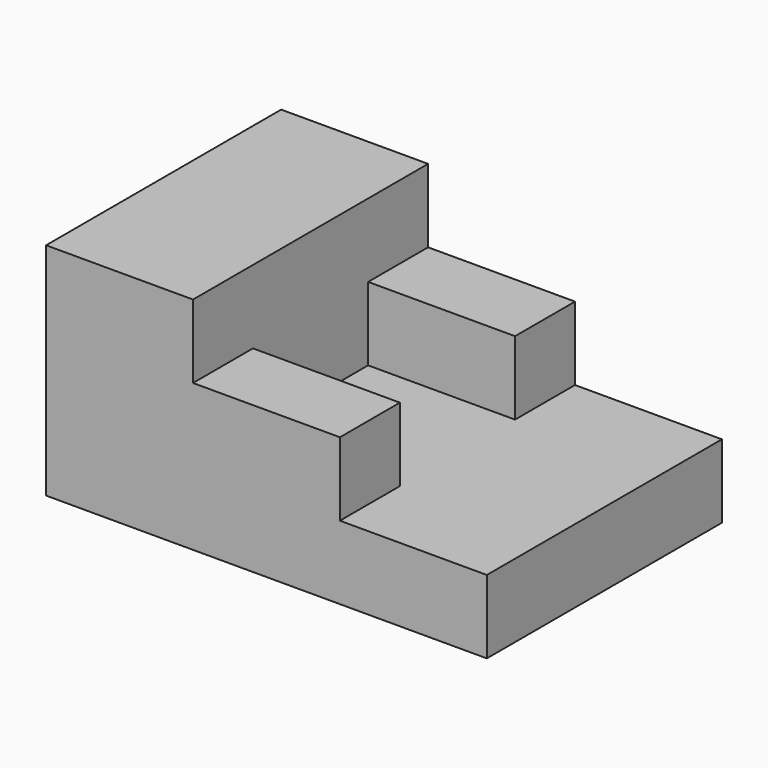
from build123d import *

# Parameters (mm, degrees)
F0_W     = 60
F0_H     = 40
F1_DEPTH = 10
F2_W     = 20
F2_H     = 40
F3_DEPTH = 20
F4_W     = 20
F4_H     = 10.2027570456
F5_DEPTH = 10
F6_DEPTH = 10


with BuildPart() as f1:
    # F0 (on Top) → F1 (new body)
    with BuildSketch(Plane.XY):
        with Locations((30, 20)):
            Rectangle(F0_W, F0_H)
    extrude(amount=F1_DEPTH)

    # F2 (on face) → F3 (join)
    with BuildSketch(Plane.XY.offset(10)):
        with Locations((10, 20)):
            Rectangle(F2_W, F2_H)
    extrude(amount=F3_DEPTH)

    # F4 (on face) → F5 (join)
    with BuildSketch(Plane.XY.offset(10)):
        with Locations((30, 34.8986214772)):
            Rectangle(F4_W, F4_H)
        with Locations((30, 5.1013785228)):
            Rectangle(F4_W, F4_H)
    extrude(amount=F5_DEPTH)

    # F4 (on face) → F6 (join)
    with BuildSketch(Plane.XY.offset(10)):
        with Locations((30, 34.8986214772)):
            Rectangle(F4_W, F4_H)
    extrude(amount=F6_DEPTH)


solid = f1.part
